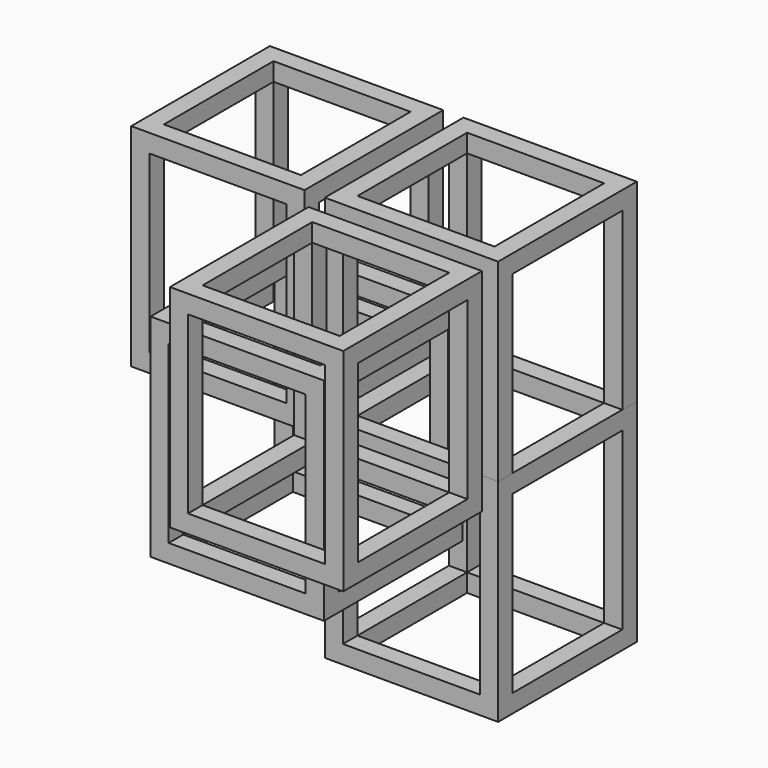
from build123d import *

# Parameters (mm, degrees)
F0_W     = 143.25
F0_H     = 143.25
F1_DEPTH = 174.9
F2_W     = 113.25
F2_H     = 144.9
F3_DEPTH = 143.251
F4_W     = 113.25
F4_H     = 144.9
F5_DEPTH = 143.251
F6_W     = 113.25
F6_H     = 113.25
F7_DEPTH = 174.901


with BuildPart() as f1:
    # F0 (on Top) → F1 (new body)
    with BuildSketch(Plane.XY):
        Rectangle(F0_W, F0_H)
    extrude(amount=F1_DEPTH)

    # F2 (on face) → F3 (cut, through all)
    with BuildSketch(Plane.XZ.offset(71.625)):
        with Locations((0, 87.45)):
            Rectangle(F2_W, F2_H)
    extrude(amount=-F3_DEPTH, mode=Mode.SUBTRACT)

    # F4 (on face) → F5 (cut, through all)
    with BuildSketch(Plane.YZ.offset(71.625)):
        with Locations((0, 87.45)):
            Rectangle(F4_W, F4_H)
    extrude(amount=-F5_DEPTH, mode=Mode.SUBTRACT)

    # F6 (on face) → F7 (cut, through all)
    with BuildSketch(Plane.XY.offset(174.9)):
        Rectangle(F6_W, F6_H)
    extrude(amount=-F7_DEPTH, mode=Mode.SUBTRACT)


with BuildPart() as f8_1:
    # F8: copy of F1
    add(f1.part.moved(Location((80, 80, 80))))


with BuildPart() as f9_1:
    # F9: copy of F1
    add(f1.part.moved(Location((-80, 80, 80))))


with BuildPart() as f10_1:
    # F10: copy of F1
    add(f1.part.moved(Location((80, -80, 80))))


with BuildPart() as f11_1:
    # F11: copy of F1
    add(f1.part.moved(Location((80, 80, -80))))


solid = Compound([f1.part, f8_1.part, f9_1.part, f10_1.part, f11_1.part])
